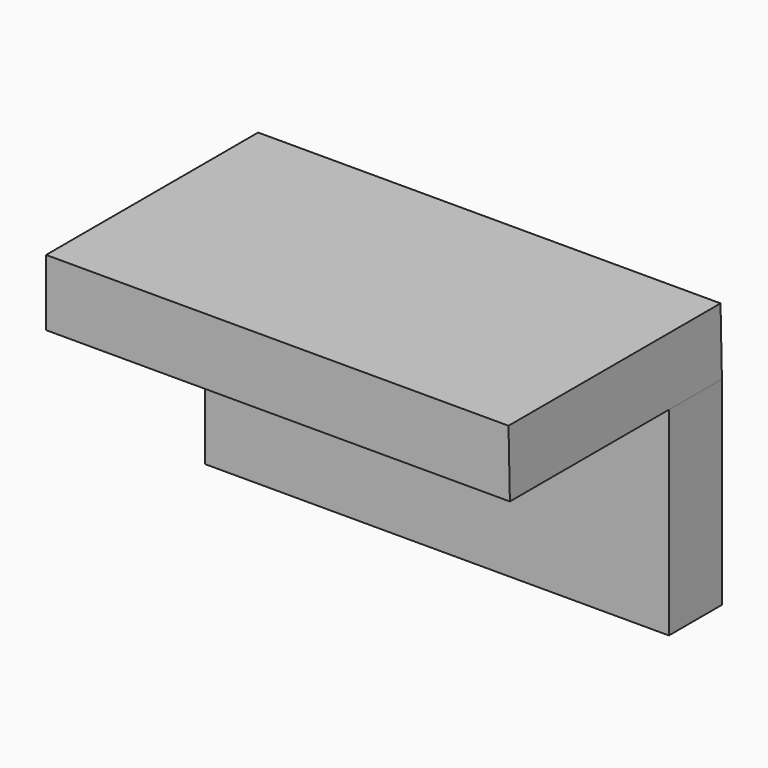
from build123d import *

# Parameters (mm, degrees)
F0_W     = 177.8
F0_H     = 76.2
F1_DEPTH = 25.4
F2_DEPTH = 101.6


with BuildPart() as f1:
    # F0 (on Front) → F1 (new body)
    with BuildSketch(Plane.XZ):
        with Locations((3.457811, 0.322963)):
            Rectangle(F0_W, F0_H)
    extrude(amount=F1_DEPTH)

    # F0 (on Front) → F2 (join)
    with BuildSketch(Plane.XZ):
        Polygon((-85.442189, 63.817453), (-85.442189, 38.422963), (92.357811, 38.422963), (91.828754, 63.817453), align=None)
    extrude(amount=F2_DEPTH)


solid = f1.part
